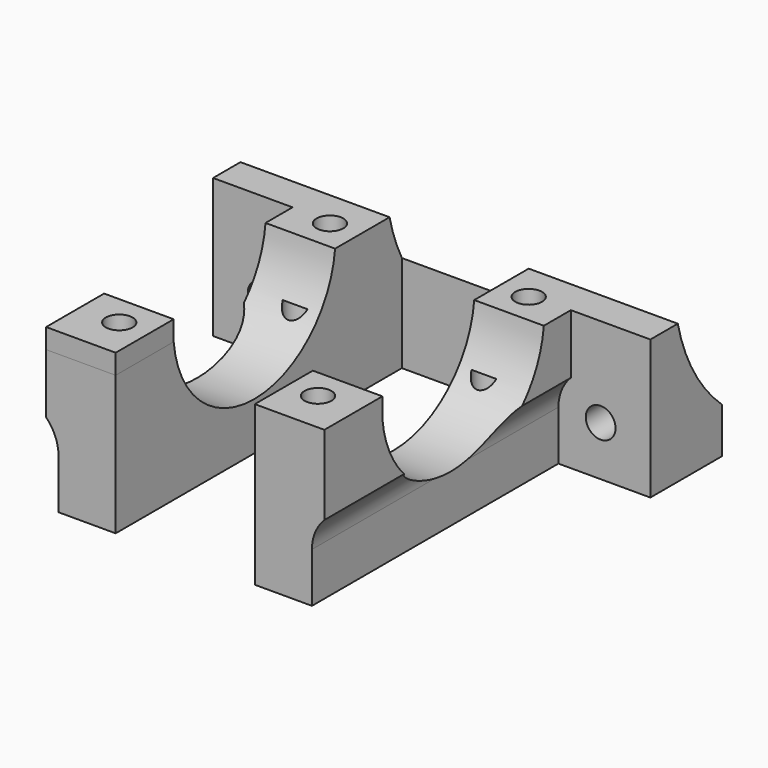
from build123d import *

# Parameters (mm, degrees)
F0_W      = 7
F0_H      = 31
F1_DEPTH  = 14
F2_R      = 1.35
F3_DEPTH  = 8
F4_R      = 10.2
F5_DEPTH  = 30
F6_R      = 1.35
F7_DEPTH  = 9
F8_R      = 1.5
F9_DEPTH  = 7
F10_R     = 18
F11_DEPTH = 44.001
F13_DEPTH = 31
F14_W     = 7
F14_H     = 7.299138
F14_R     = 1.35
F15_DEPTH = 2


with BuildPart() as f1:
    # F0 (on Top) → F1 (new body)
    with BuildSketch(Plane.XY):
        with Locations((-10.5, 15.5)):
            Rectangle(F0_W, F0_H)
        Polygon((-22, 31), (-14, 31), (-7, 31), (-7, 36), (7, 36), (7, 31), (14, 31), (22, 31), (22, 40), (-22, 40), align=None)
        with Locations((10.5, 15.5)):
            Rectangle(F0_W, F0_H)
    extrude(amount=F1_DEPTH)

    # F2 (on face) → F3 (cut)
    with BuildSketch(Plane.XY.offset(14)):
        with Locations((-10, 4.2)):
            Circle(F2_R)
        with Locations((-10, 30.7)):
            Circle(F2_R)
        with Locations((10, 30.7)):
            Circle(F2_R)
        with Locations((10, 4.2)):
            Circle(F2_R)
    extrude(amount=-F3_DEPTH, mode=Mode.SUBTRACT)

    # F4 (on face) → F5 (cut)
    with BuildSketch(Plane(origin=(-14, 0, 0), x_dir=(0, -1, 0), z_dir=(-1, 0, 0))):
        with Locations((-17.45, 15)):
            Circle(F4_R)
    extrude(amount=-F5_DEPTH, mode=Mode.SUBTRACT)

    # F6 (on face) → F7 (cut)
    with BuildSketch(Plane(origin=(0, 0, 0), x_dir=(1, 0, 0), z_dir=(0, 0, -1))):
        with Locations((9.5, -4.2)):
            Circle(F6_R)
        with Locations((-9.5, -4.2)):
            Circle(F6_R)
        with Locations((9.5, -26.2)):
            Circle(F6_R)
        with Locations((-9.5, -26.2)):
            Circle(F6_R)
    extrude(amount=-F7_DEPTH, mode=Mode.SUBTRACT)

    # F8 (on face) → F9 (cut)
    with BuildSketch(Plane.XZ.offset(-31)):
        with Locations((-17, 5)):
            Circle(F8_R)
        with Locations((17, 5)):
            Circle(F8_R)
    extrude(amount=-F9_DEPTH, mode=Mode.SUBTRACT)

    # F10 (on face) → F11 (cut, through all)
    with BuildSketch(Plane.YZ.offset(22)):
        with Locations((52, 18)):
            Circle(F10_R)
    extrude(amount=-F11_DEPTH, mode=Mode.SUBTRACT)

    # F12 (on face) → F13 (cut, through all)
    with BuildSketch(Plane.XZ):
        with BuildLine():
            Line((-12.75, -4.045816), (-12.75, 5))
            ThreePointArc((-12.75, 5), (-18.807251, 8.846602), (-19.712986, 1.728577))
            Line((-19.712986, 1.728577), (-12.75, -4.045816))
        make_face()
        with BuildLine():
            Line((12.75, -4.045816), (19.712986, 1.728577))
            ThreePointArc((19.712986, 1.728577), (18.807251, 8.846602), (12.75, 5))
            Line((12.75, 5), (12.75, -4.045816))
        make_face()
    extrude(amount=-F13_DEPTH, mode=Mode.SUBTRACT)

    # F14 (on face) → F15 (join)
    with BuildSketch(Plane.XY.offset(14)):
        with Locations((10.5, 3.649569)):
            Rectangle(F14_W, F14_H)
        with Locations((10, 4.2)):
            Circle(F14_R, mode=Mode.SUBTRACT)
        with Locations((-10.5, 3.649569)):
            Rectangle(F14_W, F14_H)
        with Locations((-10, 4.2)):
            Circle(F14_R, mode=Mode.SUBTRACT)
    extrude(amount=F15_DEPTH)


solid = f1.part
